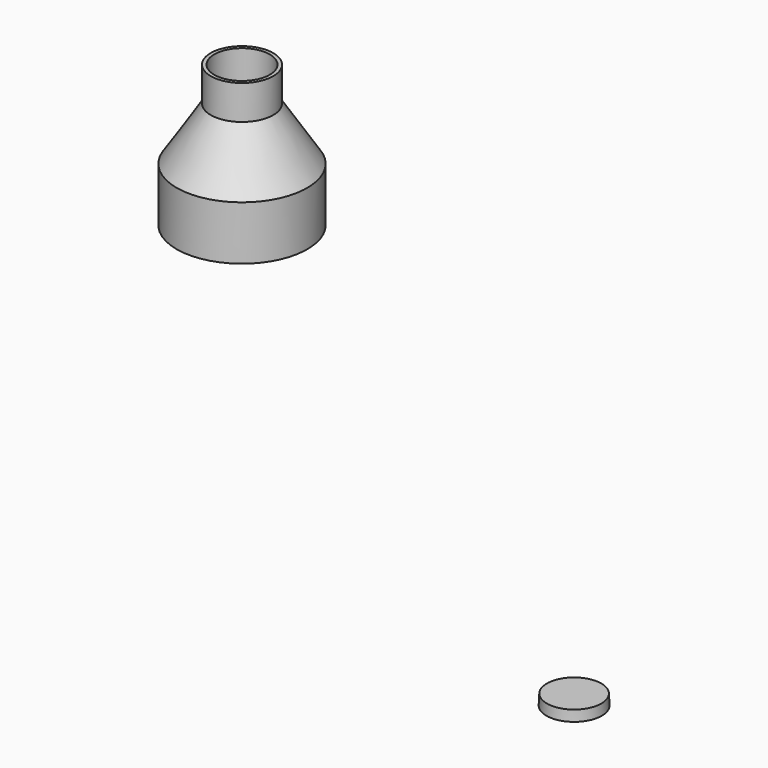
from build123d import *


with BuildPart() as f1:
    # F0 (on Front) → F1 (revolve)
    with BuildSketch(Plane.XZ):
        Polygon((7.85, 0), (7.7, 2.996248), (0, 2.996248), (0, 0), align=None)
    revolve(axis=Axis((0, 0, 1.498124), (0, 0, -1)))


with BuildPart() as f2:
    # F0 (on Front) → F2 (revolve)
    with BuildSketch(Plane.XZ):
        Polygon((-101.848397, 119.141754), (-101.848397, 129.141754), (-102.848397, 129.141754), (-102.848397, 119.435639), (-112.498397, 104.435639), (-112.498397, 89.141754), (-111.498397, 89.141754), (-111.498397, 104.141754), align=None)
    revolve(axis=Axis((-93.998397, 0, 104.049748), (0, 0, -1)))


solid = Compound([f1.part, f2.part])
